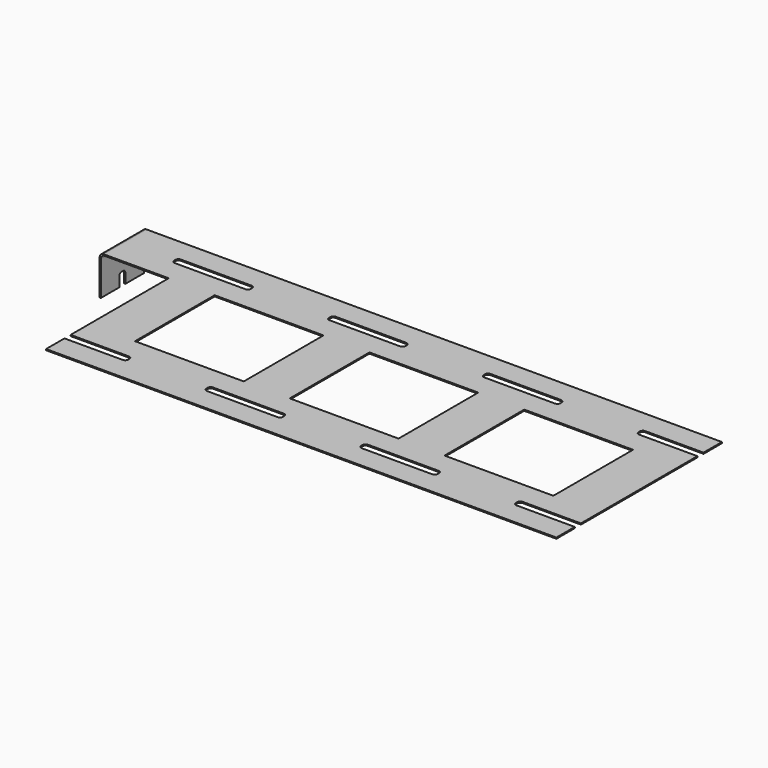
from build123d import *

# Parameters (mm, degrees)
F0_W     = 14.2
F0_H     = 13
F1_DEPTH = 0.15
F2_W     = 0.15
F2_H     = 7
F3_DEPTH = 5
F4_R     = 0.5
F6_DEPTH = 25


with BuildPart() as f1:
    # F0 (on Top) → F1 (new body)
    with BuildSketch(Plane.XY):
        with BuildLine():
            Line((-13.1, 10.5), (-13.1, 13.5))
            Line((-13.1, 13.5), (-22.1, 13.5))
            Line((-22.1, 13.5), (-22.1, 6.5))
            Line((-22.1, 6.5), (-13.1, 6.5))
            Line((-13.1, 6.5), (-13.1, 9.5))
            Line((-13.1, 9.5), (-14.7, 9.5))
            ThreePointArc((-14.7, 9.5), (-14.9828427125, 9.6171572875), (-15.1, 9.9))
            Line((-15.1, 9.9), (-15.1, 10.1))
            ThreePointArc((-15.1, 10.1), (-14.9828427125, 10.3828427125), (-14.7, 10.5))
            Line((-14.7, 10.5), (-13.1, 10.5))
        make_face()
        with BuildLine():
            Line((53.5, 13.5), (33.3, 13.5))
            Line((33.3, 13.5), (33.3, 10.5))
            Line((33.3, 10.5), (34.9, 10.5))
            ThreePointArc((34.9, 10.5), (35.1828427125, 10.3828427125), (35.3, 10.1))
            Line((35.3, 10.1), (35.3, 9.9))
            ThreePointArc((35.3, 9.9), (35.1828427125, 9.6171572875), (34.9, 9.5))
            Line((34.9, 9.5), (33.3, 9.5))
            Line((33.3, 9.5), (33.3, 6.5))
            Line((33.3, 6.5), (47.5, 6.5))
            Line((47.5, 6.5), (47.5, -6.5))
            Line((47.5, -6.5), (33.3, -6.5))
            Line((33.3, -6.5), (33.3, -9.5))
            Line((33.3, -9.5), (34.9, -9.5))
            ThreePointArc((34.9, -9.5), (35.1828427125, -9.6171572875), (35.3, -9.9))
            Line((35.3, -9.9), (35.3, -10.1))
            ThreePointArc((35.3, -10.1), (35.1828427125, -10.3828427125), (34.9, -10.5))
            Line((34.9, -10.5), (33.3, -10.5))
            Line((33.3, -10.5), (33.3, -13.5))
            Line((33.3, -13.5), (53.5, -13.5))
            Line((53.5, -13.5), (53.5, -10.5))
            Line((53.5, -10.5), (45.9, -10.5))
            ThreePointArc((45.9, -10.5), (45.6171572875, -10.3828427125), (45.5, -10.1))
            Line((45.5, -10.1), (45.5, -9.9))
            ThreePointArc((45.5, -9.9), (45.6171572875, -9.6171572875), (45.9, -9.5))
            Line((45.9, -9.5), (53.5, -9.5))
            Line((53.5, -9.5), (53.5, 0))
            Line((53.5, 0), (53.5, 9.5))
            Line((53.5, 9.5), (45.9, 9.5))
            ThreePointArc((45.9, 9.5), (45.6171572875, 9.6171572875), (45.5, 9.9))
            Line((45.5, 9.9), (45.5, 10.1))
            ThreePointArc((45.5, 10.1), (45.6171572875, 10.3828427125), (45.9, 10.5))
            Line((45.9, 10.5), (53.5, 10.5))
            Line((53.5, 10.5), (53.5, 13.5))
        make_face()
        with BuildLine():
            Line((13.1, 10.5), (13.1, 13.5))
            Line((13.1, 13.5), (-7.1, 13.5))
            Line((-7.1, 13.5), (-13.1, 13.5))
            Line((-13.1, 13.5), (-13.1, 10.5))
            Line((-13.1, 10.5), (-5.5, 10.5))
            ThreePointArc((-5.5, 10.5), (-5.2171572875, 10.3828427125), (-5.1, 10.1))
            Line((-5.1, 10.1), (-5.1, 9.9))
            ThreePointArc((-5.1, 9.9), (-5.2171572875, 9.6171572875), (-5.5, 9.5))
            Line((-5.5, 9.5), (-13.1, 9.5))
            Line((-13.1, 9.5), (-13.1, 6.5))
            Line((-13.1, 6.5), (-13.1, 0))
            Line((-13.1, 0), (-13.1, -6.5))
            Line((-13.1, -6.5), (-13.1, -9.5))
            Line((-13.1, -9.5), (-5.5, -9.5))
            ThreePointArc((-5.5, -9.5), (-5.2171572875, -9.6171572875), (-5.1, -9.9))
            Line((-5.1, -9.9), (-5.1, -10.1))
            ThreePointArc((-5.1, -10.1), (-5.2171572875, -10.3828427125), (-5.5, -10.5))
            Line((-5.5, -10.5), (-13.1, -10.5))
            Line((-13.1, -10.5), (-13.1, -13.5))
            Line((-13.1, -13.5), (-7.1, -13.5))
            Line((-7.1, -13.5), (13.1, -13.5))
            Line((13.1, -13.5), (13.1, -10.5))
            Line((13.1, -10.5), (5.5, -10.5))
            ThreePointArc((5.5, -10.5), (5.2171572875, -10.3828427125), (5.1, -10.1))
            Line((5.1, -10.1), (5.1, -9.9))
            ThreePointArc((5.1, -9.9), (5.2171572875, -9.6171572875), (5.5, -9.5))
            Line((5.5, -9.5), (13.1, -9.5))
            Line((13.1, -9.5), (13.1, -6.5))
            Line((13.1, -6.5), (13.1, 0))
            Line((13.1, 0), (13.1, 6.5))
            Line((13.1, 6.5), (13.1, 9.5))
            Line((13.1, 9.5), (5.5, 9.5))
            ThreePointArc((5.5, 9.5), (5.2171572875, 9.6171572875), (5.1, 9.9))
            Line((5.1, 9.9), (5.1, 10.1))
            ThreePointArc((5.1, 10.1), (5.2171572875, 10.3828427125), (5.5, 10.5))
            Line((5.5, 10.5), (13.1, 10.5))
        make_face()
        Rectangle(F0_W, F0_H, mode=Mode.SUBTRACT)
        with BuildLine():
            Line((33.3, 13.5), (13.1, 13.5))
            Line((13.1, 13.5), (13.1, 10.5))
            Line((13.1, 10.5), (14.7, 10.5))
            ThreePointArc((14.7, 10.5), (14.9828427125, 10.3828427125), (15.1, 10.1))
            Line((15.1, 10.1), (15.1, 9.9))
            ThreePointArc((15.1, 9.9), (14.9828427125, 9.6171572875), (14.7, 9.5))
            Line((14.7, 9.5), (13.1, 9.5))
            Line((13.1, 9.5), (13.1, 6.5))
            Line((13.1, 6.5), (27.3, 6.5))
            Line((27.3, 6.5), (27.3, -6.5))
            Line((27.3, -6.5), (13.1, -6.5))
            Line((13.1, -6.5), (13.1, -9.5))
            Line((13.1, -9.5), (14.7, -9.5))
            ThreePointArc((14.7, -9.5), (14.9828427125, -9.6171572875), (15.1, -9.9))
            Line((15.1, -9.9), (15.1, -10.1))
            ThreePointArc((15.1, -10.1), (14.9828427125, -10.3828427125), (14.7, -10.5))
            Line((14.7, -10.5), (13.1, -10.5))
            Line((13.1, -10.5), (13.1, -13.5))
            Line((13.1, -13.5), (33.3, -13.5))
            Line((33.3, -13.5), (33.3, -10.5))
            Line((33.3, -10.5), (25.7, -10.5))
            ThreePointArc((25.7, -10.5), (25.4171572875, -10.3828427125), (25.3, -10.1))
            Line((25.3, -10.1), (25.3, -9.9))
            ThreePointArc((25.3, -9.9), (25.4171572875, -9.6171572875), (25.7, -9.5))
            Line((25.7, -9.5), (33.3, -9.5))
            Line((33.3, -9.5), (33.3, -6.5))
            Line((33.3, -6.5), (33.3, 0))
            Line((33.3, 0), (33.3, 6.5))
            Line((33.3, 6.5), (33.3, 9.5))
            Line((33.3, 9.5), (25.7, 9.5))
            ThreePointArc((25.7, 9.5), (25.4171572875, 9.6171572875), (25.3, 9.9))
            Line((25.3, 9.9), (25.3, 10.1))
            ThreePointArc((25.3, 10.1), (25.4171572875, 10.3828427125), (25.7, 10.5))
            Line((25.7, 10.5), (33.3, 10.5))
            Line((33.3, 10.5), (33.3, 13.5))
        make_face()
    extrude(amount=F1_DEPTH)

    # F2 (on face) → F3 (join)
    with BuildSketch(Plane(origin=(0, 0, 0), x_dir=(1, 0, 0), z_dir=(0, 0, -1))):
        with Locations((-22.025, -10)):
            Rectangle(F2_W, F2_H)
    extrude(amount=F3_DEPTH)

    # F4
    f4_edges = [f1.edges().sort_by_distance(p)[0] for p in [
        (-21.95, 10, 0),
        (-22.1, 10, 0.15),
    ]]
    fillet(f4_edges, radius=F4_R)

    # F5 (on face) → F6 (cut)
    with BuildSketch(Plane(origin=(-22.1, 0, 0), x_dir=(0, -1, 0), z_dir=(-1, 0, 0))):
        with BuildLine():
            Line((-9.9, -3.35), (-10, -3.35))
            Line((-10, -3.35), (-10.1, -3.35))
            ThreePointArc((-10.1, -3.35), (-10.3828427125, -3.4671572875), (-10.5, -3.75))
            Line((-10.5, -3.75), (-10.5, -5))
            Line((-10.5, -5), (-9.5, -5))
            Line((-9.5, -5), (-9.5, -3.75))
            ThreePointArc((-9.5, -3.75), (-9.6171572875, -3.4671572875), (-9.9, -3.35))
        make_face()
    extrude(amount=-F6_DEPTH, mode=Mode.SUBTRACT)


solid = f1.part
